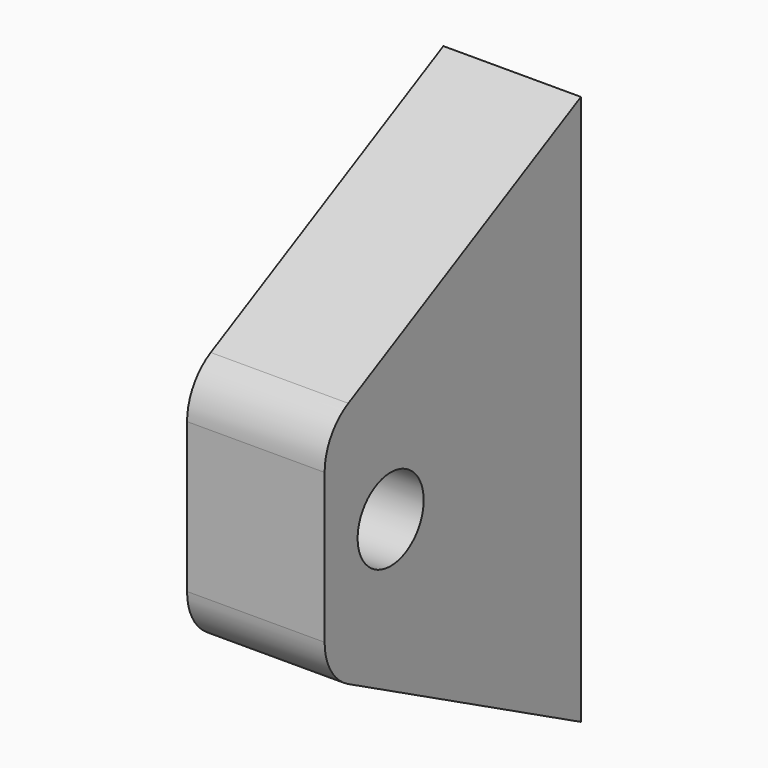
from build123d import *

# Parameters (mm, degrees)
F1_DEPTH = 31.75


with BuildPart() as f1:
    # F0 (on Right) → F1 (new body)
    with BuildSketch(Plane.YZ):
        with BuildLine():
            Line((36.973492, 9.196244), (36.973492, 72.696244))
            Line((36.973492, 72.696244), (-30.14298, 37.717617))
            ThreePointArc((-30.14298, 37.717617), (-35.132417, 33.041205), (-36.973492, 26.45533))
            Line((-36.973492, 26.45533), (-36.973492, 9.196244))
            Line((-36.973492, 9.196244), (-27.448492, 9.196244))
            ThreePointArc((-27.448492, 9.196244), (-17.923492, 18.721244), (-8.398492, 9.196244))
            Line((-8.398492, 9.196244), (36.973492, 9.196244))
        make_face()
        with BuildLine():
            Line((36.973492, -54.303756), (36.973492, 9.196244))
            Line((36.973492, 9.196244), (-8.398492, 9.196244))
            ThreePointArc((-8.398492, 9.196244), (-17.923492, -0.328756), (-27.448492, 9.196244))
            Line((-27.448492, 9.196244), (-36.973492, 9.196244))
            Line((-36.973492, 9.196244), (-36.973492, -8.062843))
            ThreePointArc((-36.973492, -8.062843), (-35.132417, -14.648718), (-30.14298, -19.32513))
            Line((-30.14298, -19.32513), (36.973492, -54.303756))
        make_face()
    extrude(amount=F1_DEPTH)


solid = f1.part
